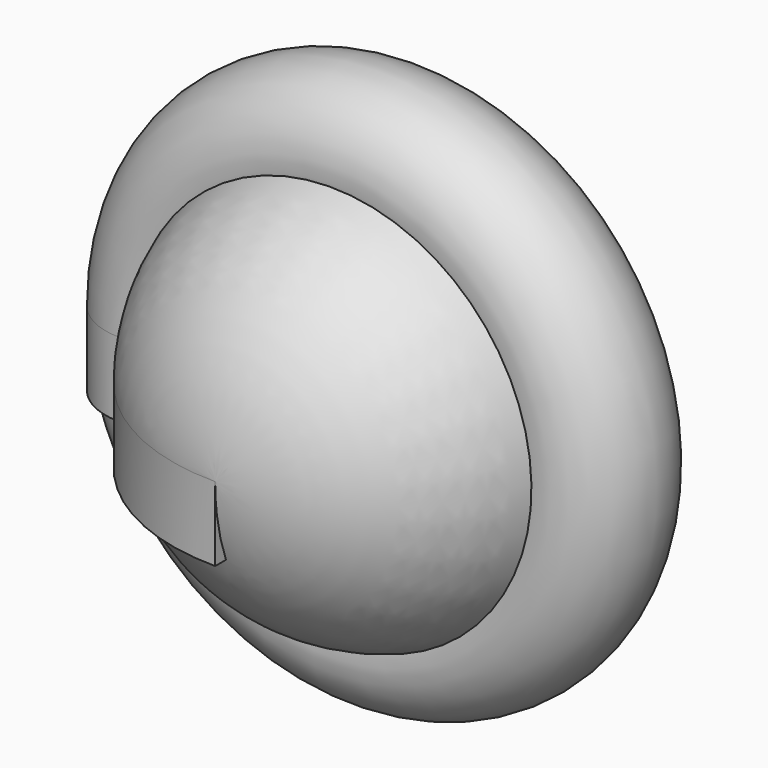
from build123d import *

# Parameters (mm, degrees)
F1_DEPTH = 25.4


with BuildPart() as f1:
    # F0 (on Top) → F1 (new body)
    with BuildSketch(Plane.XY):
        with BuildLine():
            ThreePointArc((-68.519122, 22.669713), (-95.134037, 0), (-68.519122, -22.669713))
            ThreePointArc((-68.519122, -22.669713), (-42.265052, -58.501721), (0, -72.171919))
            Line((0, -72.171919), (0, 72.171919))
            ThreePointArc((0, 72.171919), (-42.265052, 58.501721), (-68.519122, 22.669713))
        make_face()
    extrude(amount=F1_DEPTH)

    # F1_face (on face) → F2 (revolve)
    with BuildSketch(Plane(origin=(-35.565921, 0, 25.4), x_dir=(1, 0, 0), z_dir=(0, 0, 1))):
        with BuildLine():
            ThreePointArc((-32.953201, -22.669713), (-6.699131, -58.501721), (35.565921, -72.171919))
            Line((35.565921, -72.171919), (35.565921, 72.171919))
            ThreePointArc((35.565921, 72.171919), (-6.699131, 58.501721), (-32.953201, 22.669713))
            ThreePointArc((-32.953201, 22.669713), (-59.568116, 0), (-32.953201, -22.669713))
        make_face()
    revolve(axis=Axis((0, 0, 25.4), (0, 1, 0)))


solid = f1.part
